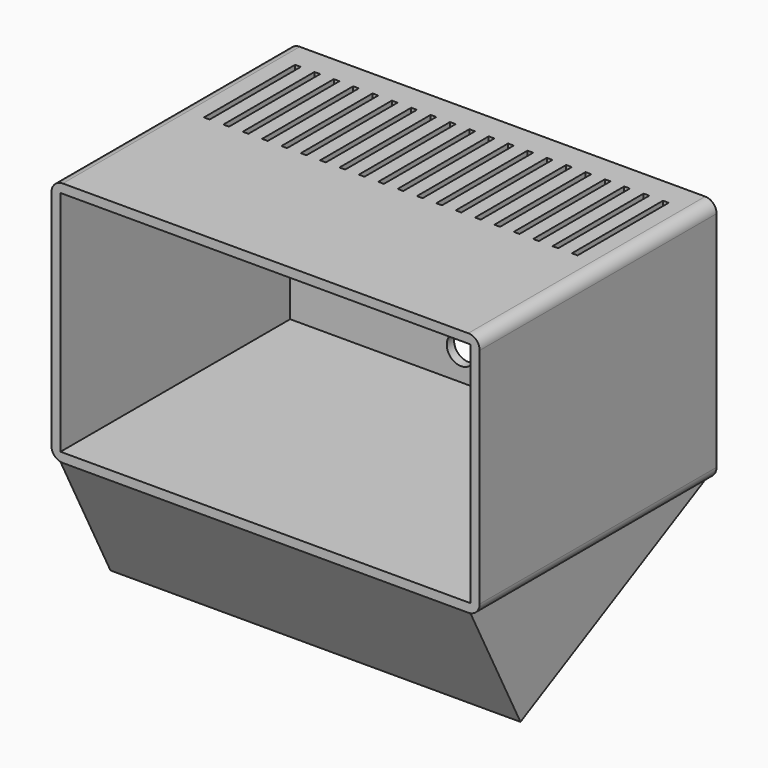
from build123d import *

# Parameters (mm, degrees)
F0_W     = 75.2
F0_H     = 43.2
F0_W_2   = 72
F0_H_2   = 40
F1_DEPTH = 52
F2_R     = 2
F3_DEPTH = 1.6
F5_DEPTH = 36
F6_D     = 9
F7_D     = 5
F8_W     = 1
F8_H     = 20
F9_DEPTH = 25


with BuildPart() as f1:
    # F0 (on Front) → F1 (new body)
    with BuildSketch(Plane.XZ):
        Rectangle(F0_W, F0_H)
        Rectangle(F0_W_2, F0_H_2, mode=Mode.SUBTRACT)
    extrude(amount=F1_DEPTH)

    # F2
    f2_edges = [f1.edges().sort_by_distance(p)[0] for p in [
        (37.6, -26, 21.6),
        (-37.6, -26, 21.6),
        (-37.6, -26, -21.6),
        (37.6, -26, -21.6),
    ]]
    fillet(f2_edges, radius=F2_R)

    # F0 (on Front) → F3 (join)
    with BuildSketch(Plane.XZ):
        Rectangle(F0_W_2, F0_H_2)
    extrude(amount=F3_DEPTH)

    # F4 (on Right) → F5 (join, symmetric)
    with BuildSketch(Plane.YZ):
        Polygon((0, -21.6), (-52, -21.6), (-41.0421315348, -42.8069394041), align=None)
    extrude(amount=F5_DEPTH, both=True)

    # F6 (through all)
    with Locations(Plane(origin=(0, 0, 0), x_dir=(1, 0, 0), z_dir=(0, 1, 0))):
        with Locations((30.4, 6)):
            Hole(F6_D / 2)

    # F7 (through all)
    with Locations(Plane(origin=(0, 0, 0), x_dir=(1, 0, 0), z_dir=(0, 1, 0))):
        with Locations((-6, 15)):
            Hole(F7_D / 2)

    # F8 (on face) → F9 (cut)
    with BuildSketch(Plane.XY.offset(21.6)):
        with Locations((-32.2436588705, -14.5910207555)):
            Rectangle(F8_W, F8_H)
        with Locations((-28.8436588705, -14.5910207555)):
            Rectangle(F8_W, F8_H)
        with Locations((-25.4436588705, -14.5910207555)):
            Rectangle(F8_W, F8_H)
        with Locations((-22.0436588705, -14.5910207555)):
            Rectangle(F8_W, F8_H)
        with Locations((-18.6436588705, -14.5910207555)):
            Rectangle(F8_W, F8_H)
        with Locations((-15.2436588705, -14.5910207555)):
            Rectangle(F8_W, F8_H)
        with Locations((-11.8436588705, -14.5910207555)):
            Rectangle(F8_W, F8_H)
        with Locations((-8.4436588705, -14.5910207555)):
            Rectangle(F8_W, F8_H)
        with Locations((-5.0436588705, -14.5910207555)):
            Rectangle(F8_W, F8_H)
        with Locations((1.7563411295, -14.5910207555)):
            Rectangle(F8_W, F8_H)
        with Locations((5.1563411295, -14.5910207555)):
            Rectangle(F8_W, F8_H)
        with Locations((-1.6436588705, -14.5910207555)):
            Rectangle(F8_W, F8_H)
        with Locations((8.5563411295, -14.5910207555)):
            Rectangle(F8_W, F8_H)
        with Locations((11.9563411295, -14.5910207555)):
            Rectangle(F8_W, F8_H)
        with Locations((15.3563411295, -14.5910207555)):
            Rectangle(F8_W, F8_H)
        with Locations((18.7563411295, -14.5910207555)):
            Rectangle(F8_W, F8_H)
        with Locations((22.1563411295, -14.5910207555)):
            Rectangle(F8_W, F8_H)
        with Locations((25.5563411295, -14.5910207555)):
            Rectangle(F8_W, F8_H)
        with Locations((28.9563411295, -14.5910207555)):
            Rectangle(F8_W, F8_H)
        with Locations((32.3563411295, -14.5910207555)):
            Rectangle(F8_W, F8_H)
    extrude(amount=-F9_DEPTH, mode=Mode.SUBTRACT)


solid = f1.part
